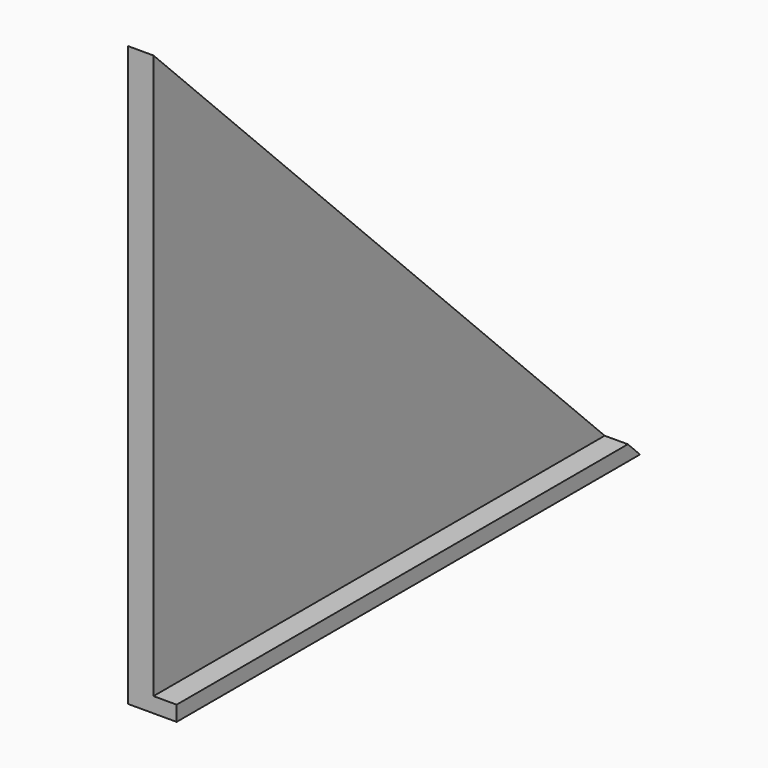
from build123d import *

# Parameters (mm, degrees)
F1_DEPTH = 8.382
F3_DEPTH = 7.62


with BuildPart() as f1:
    # F0 (on Right) → F1 (new body)
    with BuildSketch(Plane.YZ):
        Polygon((133.310616, -138.339952), (-57.282638, 52.253302), (-57.282638, -138.339952), align=None)
    extrude(amount=F1_DEPTH)

    # F2 (on face) → F3 (join)
    with BuildSketch(Plane.YZ.offset(8.382)):
        Polygon((-57.282638, -133.343466), (-57.282638, -138.339952), (133.310616, -138.339952), (128.31413, -133.343466), align=None)
    extrude(amount=F3_DEPTH)


solid = f1.part
